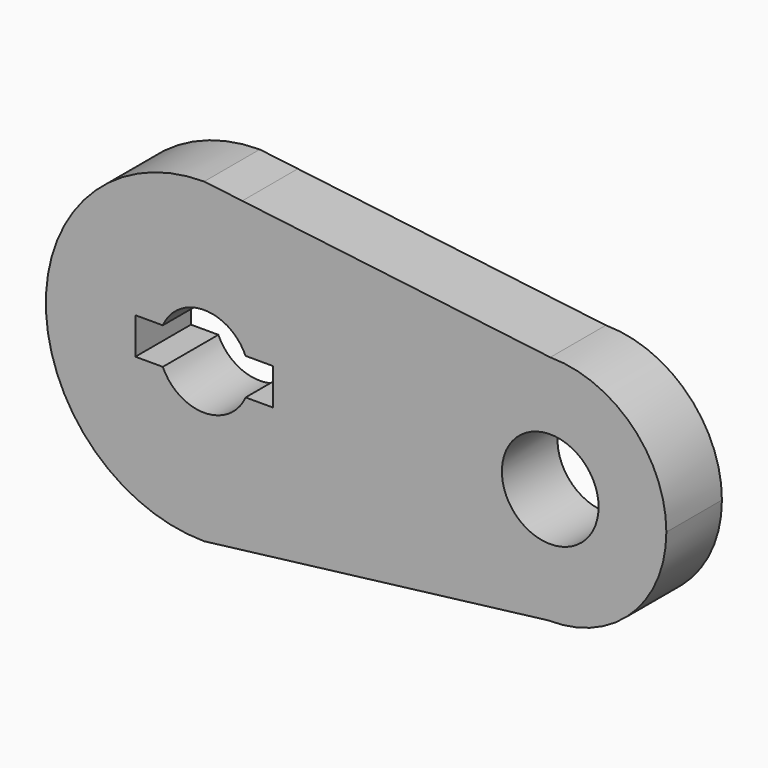
from build123d import *

# Parameters (mm, degrees)
F0_R     = 18.9209145911
F1_DEPTH = 27.178


with BuildPart() as f1:
    # F0 (on Front) → F1 (new body)
    with BuildSketch(Plane.XZ):
        with BuildLine():
            Line((14.8961656121, 60.1436708064), (0, 61.9609303353))
            ThreePointArc((0, 61.9609303353), (-61.9609303353, 0), (0, -61.9609303353))
            Line((0, -61.9609303353), (14.9818155033, -60.1223926024))
            ThreePointArc((14.9818155033, -60.1223926024), (48.8233761364, -38.1501616073), (61.9609303353, 0))
            ThreePointArc((61.9609303353, 0), (48.7961943586, 38.1849224712), (14.8961656121, 60.1436708064))
        make_face()
        with BuildLine():
            ThreePointArc((16.1964445954, -7.1509783156), (0, -17.7048385591), (-16.1964445954, -7.1509783156))
            Line((-16.1964445954, -7.1509783156), (-26.931880042, -7.1509783156))
            Line((-26.931880042, -7.1509783156), (-26.931880042, 7.1509783156))
            Line((-26.931880042, 7.1509783156), (-16.1964445954, 7.1509783156))
            ThreePointArc((-16.1964445954, 7.1509783156), (0, 17.7048385591), (16.1964445954, 7.1509783156))
            Line((16.1964445954, 7.1509783156), (26.931880042, 7.1509783156))
            Line((26.931880042, 7.1509783156), (26.931880042, -7.1509783156))
            Line((26.931880042, -7.1509783156), (16.1964445954, -7.1509783156))
        make_face(mode=Mode.SUBTRACT)
        with BuildLine():
            Line((135.4351173078, 45.4385067882), (14.8961656121, 60.1436708064))
            ThreePointArc((14.8961656121, 60.1436708064), (48.7961943586, 38.1849224712), (61.9609303353, 0))
            ThreePointArc((61.9609303353, 0), (48.8233761364, -38.1501616073), (14.9818155033, -60.1223926024))
            Line((14.9818155033, -60.1223926024), (134.6838830583, -45.4327998856))
            ThreePointArc((134.6838830583, -45.4327998856), (89.9676969368, 0.375627963), (135.4351173078, 45.4385067882))
        make_face()
        with BuildLine():
            ThreePointArc((180.8431782929, 0), (167.5453108139, 32.1191138638), (135.4351173078, 45.4385067882))
            ThreePointArc((135.4351173078, 45.4385067882), (89.9676969368, 0.375627963), (134.6838830583, -45.4327998856))
            ThreePointArc((134.6838830583, -45.4327998856), (167.2786925178, -32.3837144333), (180.8431782929, 0))
        make_face()
        with Locations((135.4046612978, 0)):
            Circle(F0_R, mode=Mode.SUBTRACT)
    extrude(amount=F1_DEPTH)


solid = f1.part
